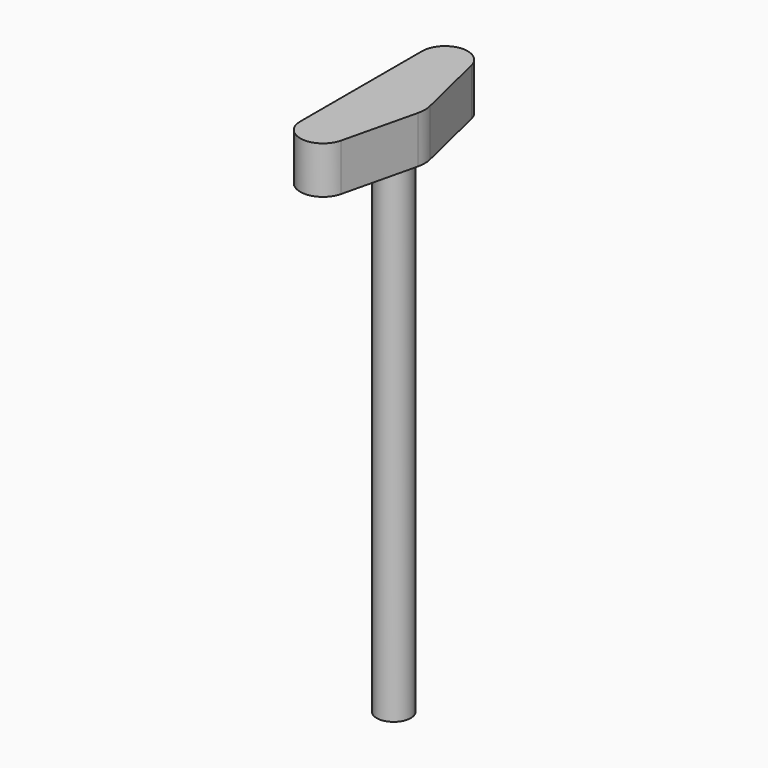
from build123d import *

# Parameters (mm, degrees)
F1_DEPTH = 170
F2_R     = 61.5
F3_DEPTH = 1780


with BuildPart() as f1:
    # F0 (on Top) → F1 (new body)
    with BuildSketch(Plane.XY):
        with BuildLine():
            Line((45.232002, -294.211346), (109.407276, -26.19729))
            ThreePointArc((109.407276, -26.19729), (112.5, 0), (109.407276, 26.19729))
            Line((109.407276, 26.19729), (45.232002, 294.211346))
            ThreePointArc((45.232002, 294.211346), (-44.672378, 356.931039), (-117.5, 275))
            Line((-117.5, 275), (-117.5, 171.751551))
            Line((-117.5, 171.751551), (-117.5, -171.751551))
            Line((-117.5, -171.751551), (-117.5, -275))
            ThreePointArc((-117.5, -275), (-44.672378, -356.931039), (45.232002, -294.211346))
        make_face()
    extrude(amount=F1_DEPTH)


with BuildPart() as f3:
    # F2 (on face) → F3 (new body)
    with BuildSketch(Plane(origin=(0, 0, 0), x_dir=(1, 0, 0), z_dir=(0, 0, -1))):
        Circle(F2_R)
    extrude(amount=F3_DEPTH)


solid = Compound([f1.part, f3.part])
